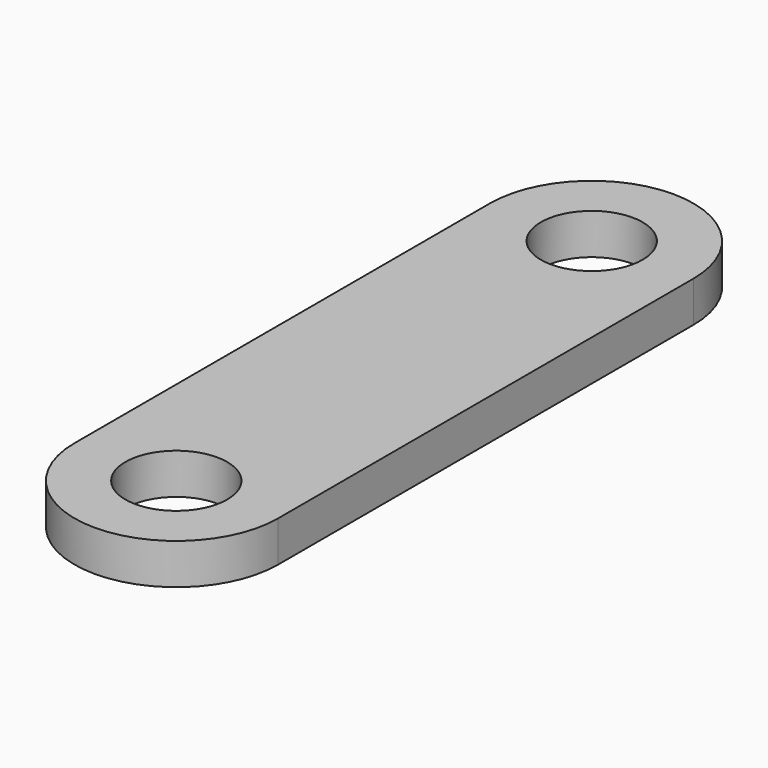
from build123d import *

# Parameters (mm, degrees)
F0_R     = 25
F1_DEPTH = 20


with BuildPart() as f1:
    # F0 (on Top) → F1 (new body)
    with BuildSketch(Plane.XY):
        with BuildLine():
            ThreePointArc((-50, 0), (0, -50), (50, 0))
            ThreePointArc((50, 0), (0, 50), (-50, 0))
        make_face()
        Circle(F0_R, mode=Mode.SUBTRACT)
        with BuildLine():
            Line((50, -255), (50, 0))
            ThreePointArc((50, 0), (0, -50), (-50, 0))
            Line((-50, 0), (-50, -255))
            ThreePointArc((-50, -255), (0, -205), (50, -255))
        make_face()
        with BuildLine():
            ThreePointArc((-50, -255), (0, -305), (50, -255))
            ThreePointArc((50, -255), (0, -205), (-50, -255))
        make_face()
        with Locations((0, -255)):
            Circle(F0_R, mode=Mode.SUBTRACT)
    extrude(amount=F1_DEPTH)


solid = f1.part
